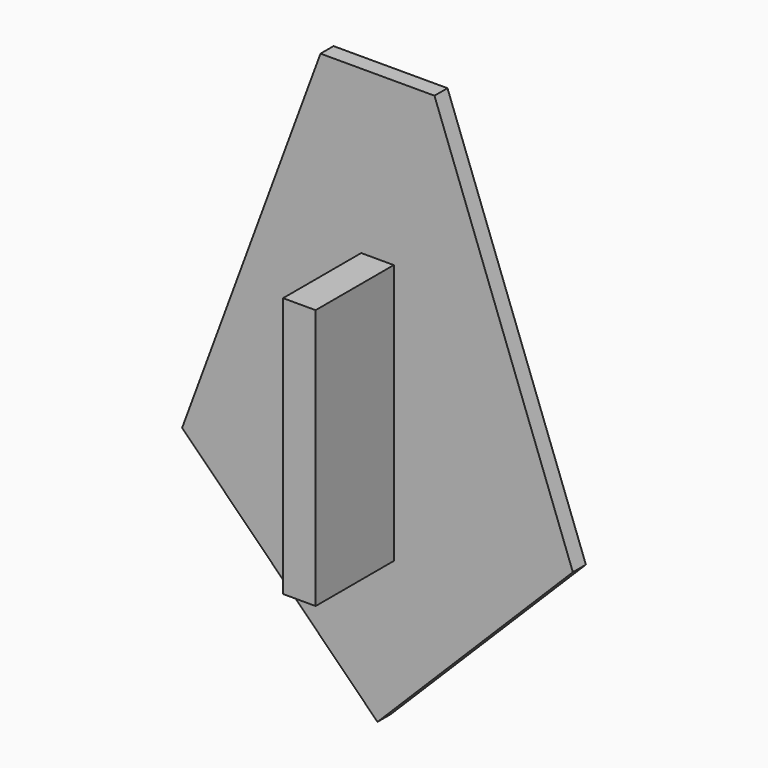
from build123d import *

# Parameters (mm, degrees)
F1_DEPTH = 3.175
F2_W     = 6.35
F2_H     = 50.8
F3_DEPTH = 19.05


with BuildPart() as f1:
    # F0 (on Front) → F1 (new body)
    with BuildSketch(Plane.XZ):
        Polygon((38.1, 0), (11.1125, 73.025), (-11.1125, 73.025), (-38.1, 0), (0, -38.1), align=None)
    extrude(amount=F1_DEPTH)

    # F2 (on face) → F3 (join)
    with BuildSketch(Plane.XZ.offset(3.175)):
        with Locations((0, 15.966772)):
            Rectangle(F2_W, F2_H)
    extrude(amount=F3_DEPTH)


solid = f1.part
